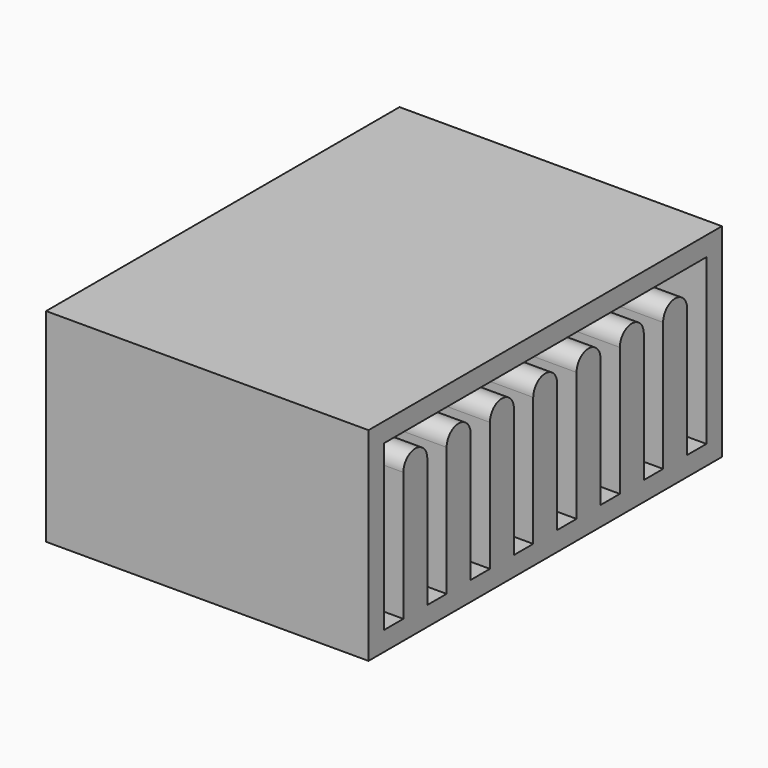
from build123d import *

# Parameters (mm, degrees)
F0_W     = 27.4
F0_H     = 12.6
F1_DEPTH = 10
F2_DEPTH = 0.5


with BuildPart() as f1:
    # F0 (on Right) → F1 (new body, symmetric)
    with BuildSketch(Plane.YZ):
        with Locations((0, 1.1)):
            Rectangle(F0_W, F0_H)
        with BuildLine():
            Line((-2.429, -4), (-2.429, 4))
            ThreePointArc((-2.429, 4), (-3.3575, 4.9285), (-4.286, 4))
            Line((-4.286, 4), (-4.286, -4))
            Line((-4.286, -4), (-5.786, -4))
            Line((-5.786, -4), (-5.786, 4))
            ThreePointArc((-5.786, 4), (-6.7145, 4.9285), (-7.643, 4))
            Line((-7.643, 4), (-7.643, -4))
            Line((-7.643, -4), (-9.143, -4))
            Line((-9.143, -4), (-9.143, 4))
            ThreePointArc((-9.143, 4), (-10.0715, 4.9285), (-11, 4))
            Line((-11, 4), (-11, -4))
            Line((-11, -4), (-12.5, -4))
            Line((-12.5, -4), (-12.5, 4))
            Line((-12.5, 4), (-12.5, 6.2))
            Line((-12.5, 6.2), (12.5, 6.2))
            Line((12.5, 6.2), (12.5, 4))
            Line((12.5, 4), (12.5, -4))
            Line((12.5, -4), (11, -4))
            Line((11, -4), (11, 4))
            ThreePointArc((11, 4), (10.0715, 4.9285), (9.143, 4))
            Line((9.143, 4), (9.143, -4))
            Line((9.143, -4), (7.643, -4))
            Line((7.643, -4), (7.643, 4))
            ThreePointArc((7.643, 4), (6.7145, 4.9285), (5.786, 4))
            Line((5.786, 4), (5.786, -4))
            Line((5.786, -4), (4.286, -4))
            Line((4.286, -4), (4.286, 4))
            ThreePointArc((4.286, 4), (3.3575, 4.9285), (2.429, 4))
            Line((2.429, 4), (2.429, -4))
            Line((2.429, -4), (0.929, -4))
            Line((0.929, -4), (0.929, 4))
            ThreePointArc((0.929, 4), (0, 4.9285), (-0.929, 4))
            Line((-0.929, 4), (-0.929, -4))
            Line((-0.929, -4), (-2.429, -4))
        make_face(mode=Mode.SUBTRACT)
    extrude(amount=F1_DEPTH, both=True)

    # F0 (on Right) → F2 (join, symmetric)
    with BuildSketch(Plane.YZ):
        with Locations((0, 1.1)):
            Rectangle(F0_W, F0_H)
        with BuildLine():
            Line((-2.429, -4), (-2.429, 4))
            ThreePointArc((-2.429, 4), (-3.3575, 4.9285), (-4.286, 4))
            Line((-4.286, 4), (-4.286, -4))
            Line((-4.286, -4), (-5.786, -4))
            Line((-5.786, -4), (-5.786, 4))
            ThreePointArc((-5.786, 4), (-6.7145, 4.9285), (-7.643, 4))
            Line((-7.643, 4), (-7.643, -4))
            Line((-7.643, -4), (-9.143, -4))
            Line((-9.143, -4), (-9.143, 4))
            ThreePointArc((-9.143, 4), (-10.0715, 4.9285), (-11, 4))
            Line((-11, 4), (-11, -4))
            Line((-11, -4), (-12.5, -4))
            Line((-12.5, -4), (-12.5, 4))
            Line((-12.5, 4), (-12.5, 6.2))
            Line((-12.5, 6.2), (12.5, 6.2))
            Line((12.5, 6.2), (12.5, 4))
            Line((12.5, 4), (12.5, -4))
            Line((12.5, -4), (11, -4))
            Line((11, -4), (11, 4))
            ThreePointArc((11, 4), (10.0715, 4.9285), (9.143, 4))
            Line((9.143, 4), (9.143, -4))
            Line((9.143, -4), (7.643, -4))
            Line((7.643, -4), (7.643, 4))
            ThreePointArc((7.643, 4), (6.7145, 4.9285), (5.786, 4))
            Line((5.786, 4), (5.786, -4))
            Line((5.786, -4), (4.286, -4))
            Line((4.286, -4), (4.286, 4))
            ThreePointArc((4.286, 4), (3.3575, 4.9285), (2.429, 4))
            Line((2.429, 4), (2.429, -4))
            Line((2.429, -4), (0.929, -4))
            Line((0.929, -4), (0.929, 4))
            ThreePointArc((0.929, 4), (0, 4.9285), (-0.929, 4))
            Line((-0.929, 4), (-0.929, -4))
            Line((-0.929, -4), (-2.429, -4))
        make_face(mode=Mode.SUBTRACT)
        with BuildLine():
            ThreePointArc((-4.286, 4), (-3.3575, 4.9285), (-2.429, 4))
            Line((-2.429, 4), (-0.929, 4))
            ThreePointArc((-0.929, 4), (0, 4.9285), (0.929, 4))
            Line((0.929, 4), (2.429, 4))
            ThreePointArc((2.429, 4), (3.3575, 4.9285), (4.286, 4))
            Line((4.286, 4), (5.786, 4))
            ThreePointArc((5.786, 4), (6.7145, 4.9285), (7.643, 4))
            Line((7.643, 4), (9.143, 4))
            ThreePointArc((9.143, 4), (10.0715, 4.9285), (11, 4))
            Line((11, 4), (12.5, 4))
            Line((12.5, 4), (12.5, 6.2))
            Line((12.5, 6.2), (-12.5, 6.2))
            Line((-12.5, 6.2), (-12.5, 4))
            Line((-12.5, 4), (-11, 4))
            ThreePointArc((-11, 4), (-10.0715, 4.9285), (-9.143, 4))
            Line((-9.143, 4), (-7.643, 4))
            ThreePointArc((-7.643, 4), (-6.7145, 4.9285), (-5.786, 4))
            Line((-5.786, 4), (-4.286, 4))
        make_face()
    extrude(amount=F2_DEPTH, both=True)


solid = f1.part
